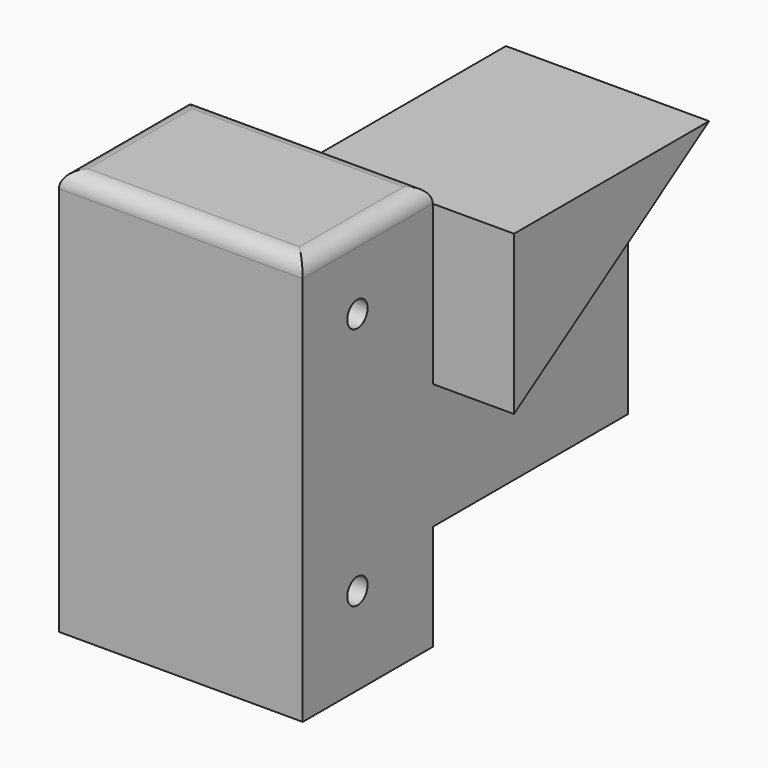
from build123d import *

# Parameters (mm, degrees)
F0_W     = 76.2
F0_H     = 50.8
F1_DEPTH = 127
F2_R     = 5.08
F4_D     = 7.9375
F5_W     = 38.1
F5_H     = 88.9
F6_DEPTH = 76.2
F8_DEPTH = 25.4


with BuildPart() as f1:
    # F0 (on Top) → F1 (new body)
    with BuildSketch(Plane.XY):
        with Locations((38.1, 25.4)):
            Rectangle(F0_W, F0_H)
    extrude(amount=F1_DEPTH)

    # F2
    f2_edges = [f1.edges().sort_by_distance(p)[0] for p in [
        (0, 25.4, 127),
        (38.1, 0, 127),
        (76.2, 25.4, 127),
        (38.1, 50.8, 127),
    ]]
    fillet(f2_edges, radius=F2_R)

    # F4 (through all)
    with Locations(Plane(origin=(0, 0, 0), x_dir=(0, -1, 0), z_dir=(-1, 0, 0))):
        with Locations((-21.3607754558, 103.5690684751), (-21.3607754558, 27.3690684751)):
            Hole(F4_D / 2)

    # F5 (on face) → F6 (join)
    with BuildSketch(Plane(origin=(0, 50.8, 0), x_dir=(-1, 0, 0), z_dir=(0, 1, 0))):
        with Locations((-57.15, 77.47)):
            Rectangle(F5_W, F5_H)
    extrude(amount=F6_DEPTH)

    # F7 (on face) → F8 (join)
    with BuildSketch(Plane.YZ.offset(76.2)):
        Polygon((127, 121.92), (50.8, 121.92), (50.8, 72.3118260503), align=None)
    extrude(amount=F8_DEPTH)


solid = f1.part
